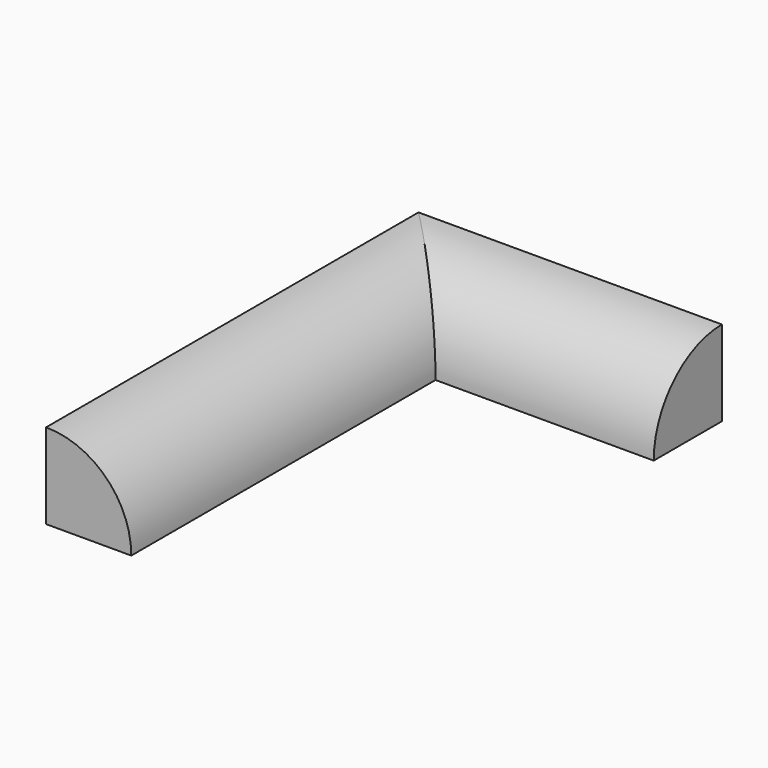
from build123d import *

# Parameters (mm, degrees)
F1_DEPTH = 87.394075
F3_DEPTH = 56.96498


with BuildPart() as f1:
    # F0 (on Front) → F1 (new body)
    with BuildSketch(Plane.XZ):
        with BuildLine():
            ThreePointArc((16, 0), (11.313708, 11.313708), (0, 16))
            Line((0, 16), (0, 0))
            Line((0, 0), (16, 0))
        make_face()
    extrude(amount=F1_DEPTH)

    # F2 (on Right) → F3 (join)
    with BuildSketch(Plane.YZ):
        with BuildLine():
            Line((-16, 0), (0, 0))
            Line((0, 0), (0, 16))
            ThreePointArc((0, 16), (-11.313708, 11.313708), (-16, 0))
        make_face()
    extrude(amount=F3_DEPTH)


solid = f1.part
